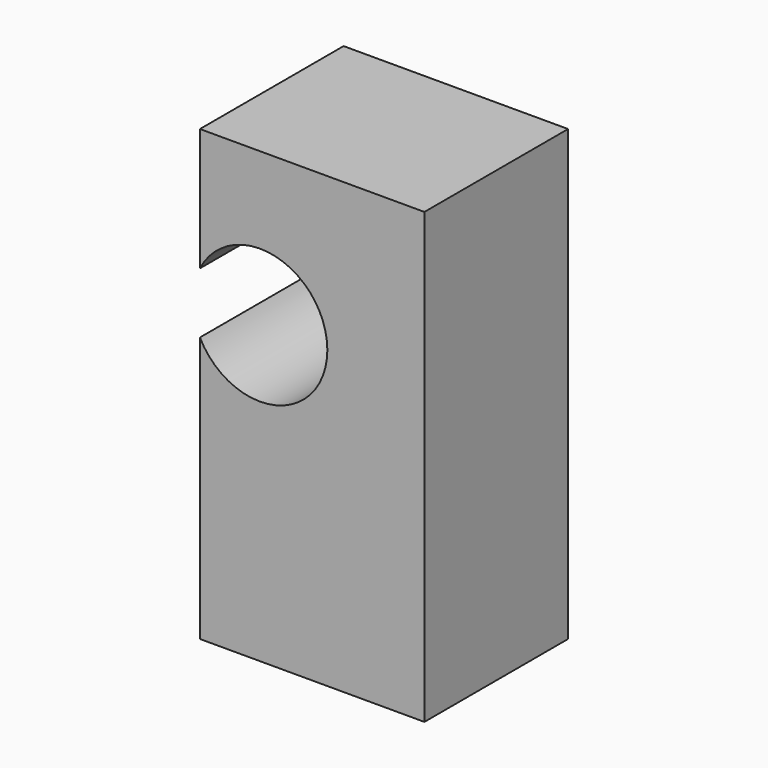
from build123d import *

# Parameters (mm, degrees)
F0_W     = 127
F0_H     = 254
F1_DEPTH = 101.6
F3_DEPTH = 101.601


with BuildPart() as f1:
    # F0 (on Front) → F1 (new body)
    with BuildSketch(Plane.XZ):
        with Locations((-70.0115717482, 66.6608795685)):
            Rectangle(F0_W, F0_H)
    extrude(amount=F1_DEPTH)

    # F2 (on face) → F3 (cut, through all)
    with BuildSketch(Plane.XZ.offset(101.6)):
        with BuildLine():
            ThreePointArc((-133.5115717482, 89.8414792443), (-90.6735324782, 69.9836491161), (-61.4159074664, 107.0433631539))
            ThreePointArc((-61.4159074664, 107.0433631539), (-90.6735324782, 144.1030771918), (-133.5115717482, 124.2452470636))
            Line((-133.5115717482, 124.2452470636), (-133.5115717482, 89.8414792443))
        make_face()
    extrude(amount=-F3_DEPTH, mode=Mode.SUBTRACT)


solid = f1.part
